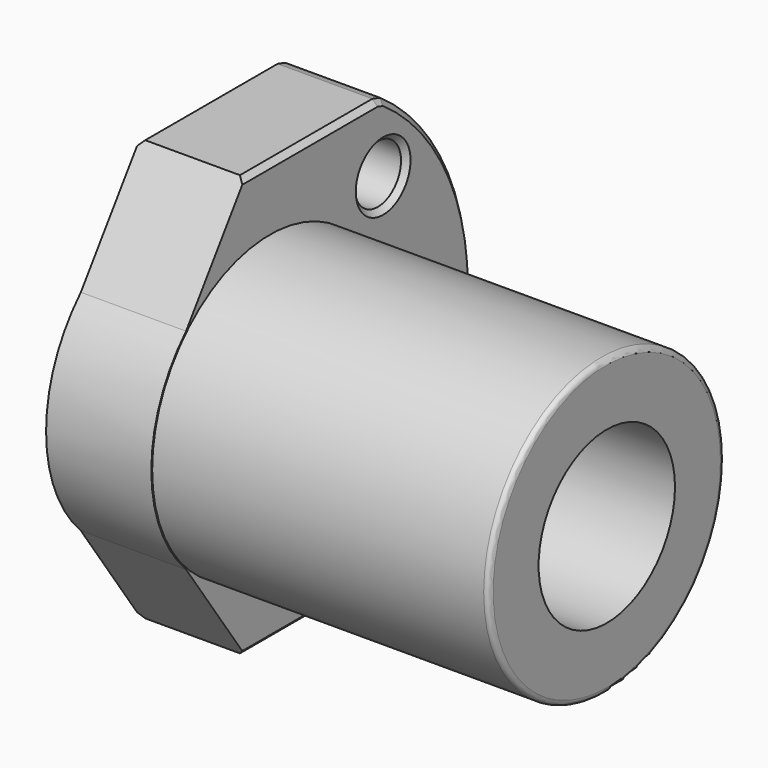
from build123d import *

# Parameters (mm, degrees)
SKETCH_R        = 2.75
SKETCH_R_2      = 8.1
PAD_DEPTH       = 10
SKETCH001_R     = 14
SKETCH001_R_2   = 8.1
PAD001_DEPTH    = 32
CHAMFER_SIZE    = 0.5
FILLET_R        = 0.5
CHAMFER001_SIZE = 0.5
POCKET_DEPTH    = 10


with BuildPart() as part:
    # Sketch → Pad (new body)
    with BuildSketch(Plane.YZ):
        with BuildLine():
            ThreePointArc((-13.266499, 20), (-24, 0), (-13.266499, -20))
            Line((-13.266499, -20), (13.266499, -20))
            ThreePointArc((13.266499, -20), (24, 0), (13.266499, 20))
            Line((-13.266499, 20), (13.266499, 20))
        make_face()
        with Locations((-13.435058, 13.435)):
            Circle(SKETCH_R, mode=Mode.SUBTRACT)
        with Locations((-19, 0)):
            Circle(SKETCH_R, mode=Mode.SUBTRACT)
        with Locations((-13.435058, -13.435)):
            Circle(SKETCH_R, mode=Mode.SUBTRACT)
        with Locations((13.435058, 13.435)):
            Circle(SKETCH_R, mode=Mode.SUBTRACT)
        with Locations((19, 0)):
            Circle(SKETCH_R, mode=Mode.SUBTRACT)
        with Locations((13.435058, -13.435)):
            Circle(SKETCH_R, mode=Mode.SUBTRACT)
        Circle(SKETCH_R_2, mode=Mode.SUBTRACT)
    extrude(amount=PAD_DEPTH)

    # Sketch001 → Pad001 (new body)
    with BuildSketch(Plane.YZ.offset(10)):
        Circle(SKETCH001_R)
        Circle(SKETCH001_R_2, mode=Mode.SUBTRACT)
    extrude(amount=PAD001_DEPTH)

    # Chamfer
    chamfer_edges = [part.edges().sort_by_distance(p)[0] for p in [
        (0, -16.185058, -13.435),
        (10, -16.185058, -13.435),
        (0, -21.75, 0),
        (10, -21.75, 0),
        (0, -16.185058, 13.435),
        (10, -16.185058, 13.435),
        (0, 10.685058, 13.435),
        (10, 10.685058, 13.435),
        (0, 16.25, 0),
        (10, 16.25, 0),
        (0, 10.685058, -13.435),
        (10, 10.685058, -13.435),
    ]]
    chamfer(chamfer_edges, length=CHAMFER_SIZE)

    # Fillet
    fillet_edges = [part.edges().sort_by_distance(p)[0] for p in [
        (42, -14, 0),
    ]]
    fillet(fillet_edges, radius=FILLET_R)

    # Chamfer001
    chamfer001_edges = [part.edges().sort_by_distance(p)[0] for p in [
        (5, -13.266499, 20),
        (5, -13.266499, -20),
        (0, -24, 0),
        (10, -24, 0),
        (5, 13.266499, 20),
        (0, 0, 20),
        (10, 0, 20),
        (5, 13.266499, -20),
        (0, 24, 0),
        (10, 24, 0),
        (0, 0, -20),
        (10, 0, -20),
    ]]
    chamfer(chamfer001_edges, length=CHAMFER001_SIZE)

    # Sketch002 → Pocket (cut)
    with BuildSketch(Plane(origin=(0, 0, 0), x_dir=(0, 1, 0), z_dir=(-1, 0, 0))):
        with BuildLine():
            ThreePointArc((-9.970206, 9.970206), (-14.1, 0), (-9.970206, -9.970206))
            Line((-9.970206, -9.970206), (-2.737206, -20.3))
            Line((-2.737206, -20.3), (18, -20.3))
            Line((18, -20.3), (18, -27))
            Line((18, -27), (0, -27))
            ThreePointArc((0, 27), (-27, 0), (0, -27))
            Line((0, 27), (18, 27))
            Line((18, 27), (18, 20.3))
            Line((18, 20.3), (-2.737206, 20.3))
            Line((-9.970206, 9.970206), (-2.737206, 20.3))
        make_face()
    extrude(amount=-POCKET_DEPTH, mode=Mode.SUBTRACT)


solid = part.part
